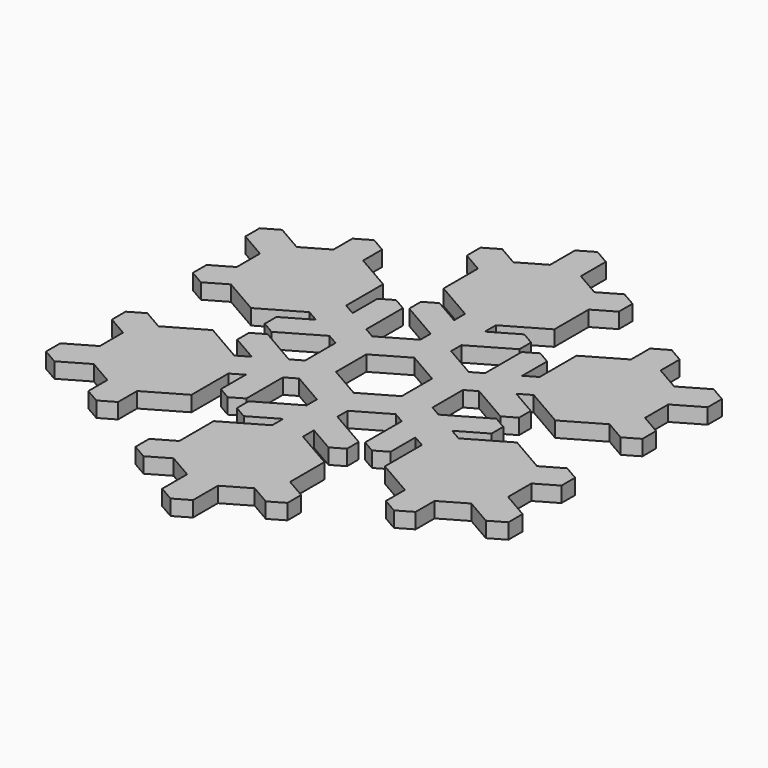
from build123d import *

# Parameters (mm, degrees)
F1_DEPTH = 1.5
F2_SCALE = 2


with BuildPart() as f1:
    # F0 (on Top) → F1 (new body)
    with BuildSketch(Plane.XY):
        Polygon((-8.2624832158, 6.5023977164), (-5.7863234917, 5.0727862331), (-5.7863234917, 9.5324213519), (-7.0244033538, 10.2472270935), (-8.2624832158, 9.5324213519), align=None)
        Polygon((5.7863234917, 9.5324213519), (5.7863234917, 5.0727862331), (8.2624832158, 6.5023977164), (8.2624832158, 9.5324213519), (7.0244033538, 10.2472270935), align=None)
        Polygon((5.3621573045, -9.7773138143), (1.5, -7.5474962549), (1.5, -10.4067192215), (4.1240774424, -11.9217310392), (5.3621573045, -11.2069252975), align=None)
        Polygon((-6.2020054008, 3.5807294877), (-5.7863234917, 3.8207235498), (-5.7863234917, 5.0727862331), (-8.2624832158, 6.5023977164), (-9.4228423916, 7.1723313989), (-9.4228423916, 11.6697973605), (-13.0456886122, 13.7614486012), (-14.492149736, 14.5965633204), (-15.9386108599, 13.7614486012), (-18.3870695114, 12.3478303396), (-21.0166604984, 13.8660254038), (-22.5166604984, 13), (-22.5166604984, 11.2679491924), (-19.8870695114, 9.7497541283), (-19.8870695114, 6.9225176051), (-19.8870695114, 5.2522881666), (-18.4406083876, 4.4171734474), (-14.8177621671, 2.3255222067), (-10.9228423916, 4.5742551876), (-9.7624832158, 3.9043215051), (-7.2863234917, 2.4747100218), (-6.2020054008, 3.1007413634), align=None)
        Polygon((9.7624832158, -3.9043215051), (7.2863234917, -2.4747100218), (6.2020054008, -3.1007413634), (6.2020054008, -3.5807294877), (5.7863234917, -3.8207235498), (5.7863234917, -5.0727862331), (8.2624832158, -6.5023977164), (9.4228423916, -7.1723313989), (9.4228423916, -11.6697973605), (13.0456886122, -13.7614486012), (14.492149736, -14.5965633204), (15.9386108599, -13.7614486012), (18.3870695114, -12.3478303396), (21.0166604984, -13.8660254038), (22.5166604984, -13), (22.5166604984, -11.2679491924), (19.8870695114, -9.7497541283), (19.8870695114, -6.9225176051), (19.8870695114, -5.2522881666), (18.4406083876, -4.4171734474), (14.8177621671, -2.3255222067), (10.9228423916, -4.5742551876), align=None)
        Polygon((-5.3621573045, 9.7773138143), (-1.5, 7.5474962549), (-1.5, 10.4067192215), (-4.1240774424, 11.9217310392), (-5.3621573045, 11.2069252975), align=None)
        Polygon((0, -7.1614589754), (-0.4156819092, -6.9214649132), (-1.5, -7.5474962549), (-1.5, -10.4067192215), (-1.5, -11.7465865865), (-5.3949197754, -13.9953195673), (-5.3949197754, -18.1786220486), (-5.3949197754, -19.848851487), (-3.9484586516, -20.6839662063), (-1.5, -22.0975844679), (-1.5, -25.1339745962), (0, -26), (1.5, -25.1339745962), (1.5, -22.0975844679), (3.9484586516, -20.6839662063), (5.3949197754, -19.848851487), (5.3949197754, -18.1786220486), (5.3949197754, -13.9953195673), (1.5, -11.7465865865), (1.5, -10.4067192215), (1.5, -7.5474962549), (0.4156819092, -6.9214649132), align=None)
        Polygon((13.0456886122, 16.0779369338), (13.0456886122, 13.7614486012), (14.492149736, 14.5965633204), (15.9386108599, 13.7614486012), (15.9386108599, 16.0779369338), (14.492149736, 16.913051653), align=None)
        Polygon((-11.1484807962, 0.2448924624), (-7.2863234917, 2.4747100218), (-9.7624832158, 3.9043215051), (-12.3865606582, 2.3893096873), (-12.3865606582, 0.959698204), align=None)
        Polygon((-14.492149736, 14.5965633204), (-13.0456886122, 13.7614486012), (-13.0456886122, 16.0779369338), (-14.492149736, 16.913051653), (-15.9386108599, 16.0779369338), (-15.9386108599, 13.7614486012), align=None)
        Polygon((1.5, 10.4067192215), (1.5, 7.5474962549), (5.3621573045, 9.7773138143), (5.3621573045, 11.2069252975), (4.1240774424, 11.9217310392), align=None)
        Polygon((-6.2020054008, -3.5807294877), (-6.2020054008, -3.1007413634), (-7.2863234917, -2.4747100218), (-9.7624832158, -3.9043215051), (-10.9228423916, -4.5742551876), (-14.8177621671, -2.3255222067), (-18.4406083876, -4.4171734474), (-19.8870695114, -5.2522881666), (-19.8870695114, -6.9225176051), (-19.8870695114, -9.7497541283), (-22.5166604984, -11.2679491924), (-22.5166604984, -13), (-21.0166604984, -13.8660254038), (-18.3870695114, -12.3478303396), (-15.9386108599, -13.7614486012), (-14.492149736, -14.5965633204), (-13.0456886122, -13.7614486012), (-9.4228423916, -11.6697973605), (-9.4228423916, -7.1723313989), (-8.2624832158, -6.5023977164), (-5.7863234917, -5.0727862331), (-5.7863234917, -3.8207235498), align=None)
        Polygon((-13.0456886122, -16.0779369338), (-13.0456886122, -13.7614486012), (-14.492149736, -14.5965633204), (-15.9386108599, -13.7614486012), (-15.9386108599, -16.0779369338), (-14.492149736, -16.913051653), align=None)
        Polygon((-5.7863234917, -9.5324213519), (-5.7863234917, -5.0727862331), (-8.2624832158, -6.5023977164), (-8.2624832158, -9.5324213519), (-7.0244033538, -10.2472270935), align=None)
        Polygon((-9.7624832158, -3.9043215051), (-7.2863234917, -2.4747100218), (-11.1484807962, -0.2448924624), (-12.3865606582, -0.959698204), (-12.3865606582, -2.3893096873), align=None)
        Polygon((9.7624832158, 3.9043215051), (7.2863234917, 2.4747100218), (11.1484807962, 0.2448924624), (12.3865606582, 0.959698204), (12.3865606582, 2.3893096873), align=None)
        Polygon((-0.4156819092, 6.9214649132), (0, 7.1614589754), (0.4156819092, 6.9214649132), (1.5, 7.5474962549), (1.5, 10.4067192215), (1.5, 11.7465865865), (5.3949197754, 13.9953195673), (5.3949197754, 18.1786220486), (5.3949197754, 19.848851487), (3.9484586516, 20.6839662063), (1.5, 22.0975844679), (1.5, 25.1339745962), (0, 26), (-1.5, 25.1339745962), (-1.5, 22.0975844679), (-3.9484586516, 20.6839662063), (-5.3949197754, 19.848851487), (-5.3949197754, 18.1786220486), (-5.3949197754, 13.9953195673), (-1.5, 11.7465865865), (-1.5, 10.4067192215), (-1.5, 7.5474962549), align=None)
        Polygon((-1.5, -10.4067192215), (-1.5, -7.5474962549), (-5.3621573045, -9.7773138143), (-5.3621573045, -11.2069252975), (-4.1240774424, -11.9217310392), align=None)
        Polygon((14.492149736, -14.5965633204), (13.0456886122, -13.7614486012), (13.0456886122, -16.0779369338), (14.492149736, -16.913051653), (15.9386108599, -16.0779369338), (15.9386108599, -13.7614486012), align=None)
        Polygon((11.1484807962, -0.2448924624), (7.2863234917, -2.4747100218), (9.7624832158, -3.9043215051), (12.3865606582, -2.3893096873), (12.3865606582, -0.959698204), align=None)
        Polygon((8.2624832158, -6.5023977164), (5.7863234917, -5.0727862331), (5.7863234917, -9.5324213519), (7.0244033538, -10.2472270935), (8.2624832158, -9.5324213519), align=None)
        Polygon((0.4156819092, 6.9214649132), (0, 7.1614589754), (-0.4156819092, 6.9214649132), (-1.5, 6.2954335716), (-4.7020054008, 4.4467548915), (-5.7863234917, 3.8207235498), (-6.2020054008, 3.5807294877), (-6.2020054008, 3.1007413634), (-6.2020054008, 1.8486786801), (-6.2020054008, -1.8486786801), (-6.2020054008, -3.1007413634), (-6.2020054008, -3.5807294877), (-5.7863234917, -3.8207235498), (-4.7020054008, -4.4467548915), (-1.5, -6.2954335716), (-0.4156819092, -6.9214649132), (0, -7.1614589754), (0.4156819092, -6.9214649132), (1.5, -6.2954335716), (4.7020054008, -4.4467548915), (5.7863234917, -3.8207235498), (6.2020054008, -3.5807294877), (6.2020054008, -3.1007413634), (6.2020054008, -1.8486786801), (6.2020054008, 1.8486786801), (6.2020054008, 3.1007413634), (6.2020054008, 3.5807294877), (5.7863234917, 3.8207235498), (4.7020054008, 4.4467548915), (1.5, 6.2954335716), align=None)
        Polygon((-3.2020054008, -1.8486786801), (-3.2020054008, 1.8486786801), (0, 3.6973573602), (3.2020054008, 1.8486786801), (3.2020054008, -1.8486786801), (0, -3.6973573602), align=None, mode=Mode.SUBTRACT)
        Polygon((5.7863234917, 5.0727862331), (5.7863234917, 3.8207235498), (6.2020054008, 3.5807294877), (6.2020054008, 3.1007413634), (7.2863234917, 2.4747100218), (9.7624832158, 3.9043215051), (10.9228423916, 4.5742551876), (14.8177621671, 2.3255222067), (18.4406083876, 4.4171734474), (19.8870695114, 5.2522881666), (19.8870695114, 6.9225176051), (19.8870695114, 9.7497541283), (22.5166604984, 11.2679491924), (22.5166604984, 13), (21.0166604984, 13.8660254038), (18.3870695114, 12.3478303396), (15.9386108599, 13.7614486012), (14.492149736, 14.5965633204), (13.0456886122, 13.7614486012), (9.4228423916, 11.6697973605), (9.4228423916, 7.1723313989), (8.2624832158, 6.5023977164), align=None)
        Polygon((19.8870695114, 5.2522881666), (18.4406083876, 4.4171734474), (20.4467461312, 3.2589292811), (21.893207255, 4.0940440003), (21.893207255, 5.7642734388), (19.8870695114, 6.9225176051), align=None)
        Polygon((-20.4467461312, 3.2589292811), (-18.4406083876, 4.4171734474), (-19.8870695114, 5.2522881666), (-19.8870695114, 6.9225176051), (-21.893207255, 5.7642734388), (-21.893207255, 4.0940440003), align=None)
        Polygon((-19.8870695114, -5.2522881666), (-18.4406083876, -4.4171734474), (-20.4467461312, -3.2589292811), (-21.893207255, -4.0940440003), (-21.893207255, -5.7642734388), (-19.8870695114, -6.9225176051), align=None)
        Polygon((5.3949197754, 19.848851487), (5.3949197754, 18.1786220486), (7.401057519, 19.3368662149), (7.401057519, 21.0070956533), (5.9545963952, 21.8422103726), (3.9484586516, 20.6839662063), align=None)
        Polygon((-7.401057519, 19.3368662149), (-5.3949197754, 18.1786220486), (-5.3949197754, 19.848851487), (-3.9484586516, 20.6839662063), (-5.9545963952, 21.8422103726), (-7.401057519, 21.0070956533), align=None)
        Polygon((7.401057519, -19.3368662149), (5.3949197754, -18.1786220486), (5.3949197754, -19.848851487), (3.9484586516, -20.6839662063), (5.9545963952, -21.8422103726), (7.401057519, -21.0070956533), align=None)
        Polygon((20.4467461312, -3.2589292811), (18.4406083876, -4.4171734474), (19.8870695114, -5.2522881666), (19.8870695114, -6.9225176051), (21.893207255, -5.7642734388), (21.893207255, -4.0940440003), align=None)
        Polygon((-5.3949197754, -19.848851487), (-5.3949197754, -18.1786220486), (-7.401057519, -19.3368662149), (-7.401057519, -21.0070956533), (-5.9545963952, -21.8422103726), (-3.9484586516, -20.6839662063), align=None)
        Polygon((-1.5, 6.2954335716), (-0.4156819092, 6.9214649132), (-1.5, 7.5474962549), align=None)
        Polygon((5.7863234917, 5.0727862331), (4.7020054008, 4.4467548915), (5.7863234917, 3.8207235498), align=None)
        Polygon((7.2863234917, 2.4747100218), (6.2020054008, 3.1007413634), (6.2020054008, 1.8486786801), align=None)
        Polygon((7.2863234917, -2.4747100218), (6.2020054008, -1.8486786801), (6.2020054008, -3.1007413634), align=None)
        Polygon((5.7863234917, -5.0727862331), (5.7863234917, -3.8207235498), (4.7020054008, -4.4467548915), align=None)
        Polygon((1.5, -7.5474962549), (1.5, -6.2954335716), (0.4156819092, -6.9214649132), align=None)
        Polygon((-4.7020054008, -4.4467548915), (-5.7863234917, -3.8207235498), (-5.7863234917, -5.0727862331), align=None)
        Polygon((-6.2020054008, -3.1007413634), (-6.2020054008, -1.8486786801), (-7.2863234917, -2.4747100218), align=None)
        Polygon((-0.4156819092, -6.9214649132), (-1.5, -6.2954335716), (-1.5, -7.5474962549), align=None)
        Polygon((-6.2020054008, 1.8486786801), (-6.2020054008, 3.1007413634), (-7.2863234917, 2.4747100218), align=None)
        Polygon((-5.7863234917, 3.8207235498), (-4.7020054008, 4.4467548915), (-5.7863234917, 5.0727862331), align=None)
        Polygon((1.5, 7.5474962549), (0.4156819092, 6.9214649132), (1.5, 6.2954335716), align=None)
    extrude(amount=F1_DEPTH)


with BuildPart() as f1_1:
    # F2: moved
    add(f1.part.scale(F2_SCALE))


solid = f1_1.part
